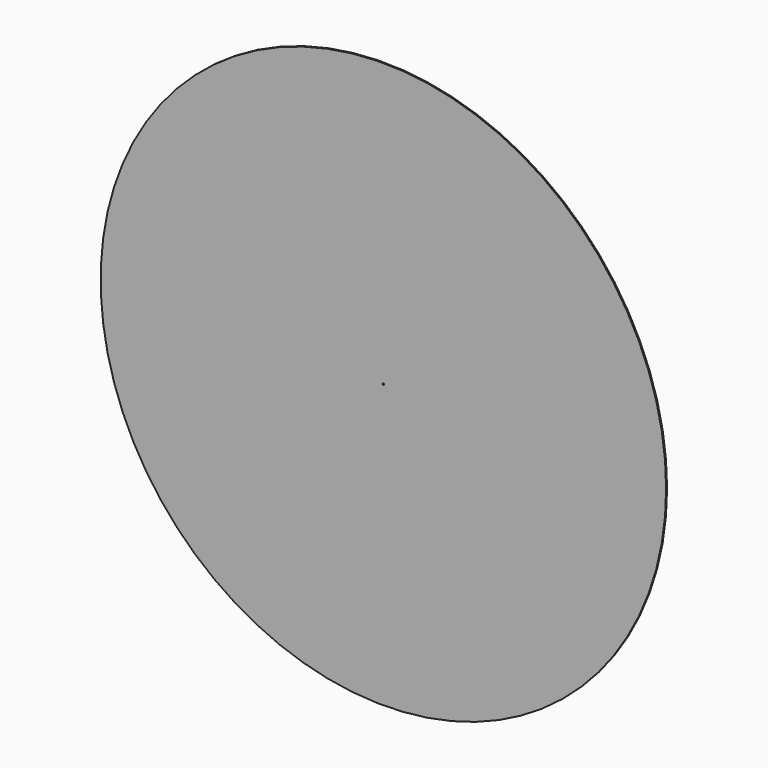
from build123d import *

# Parameters (mm, degrees)
F0_R     = 975.36
F0_R_2   = 152.4
F1_DEPTH = 4
F2_D     = 5


with BuildPart() as f1:
    # F0 (on Front) → F1 (new body)
    with BuildSketch(Plane.XZ):
        with Locations((-21.6767322272, -26.6700014472)):
            Circle(F0_R)
        with Locations((-21.6767322272, -26.6700014472)):
            Circle(F0_R_2, mode=Mode.SUBTRACT)
        with Locations((-21.6767322272, -26.6700014472)):
            Circle(F0_R_2)
    extrude(amount=F1_DEPTH)

    # F2 (through all)
    with Locations(Plane(origin=(0, 0, 0), x_dir=(1, 0, 0), z_dir=(0, 1, 0))):
        with Locations((-21.6767322272, 26.6700014472)):
            Hole(F2_D / 2)


solid = f1.part
